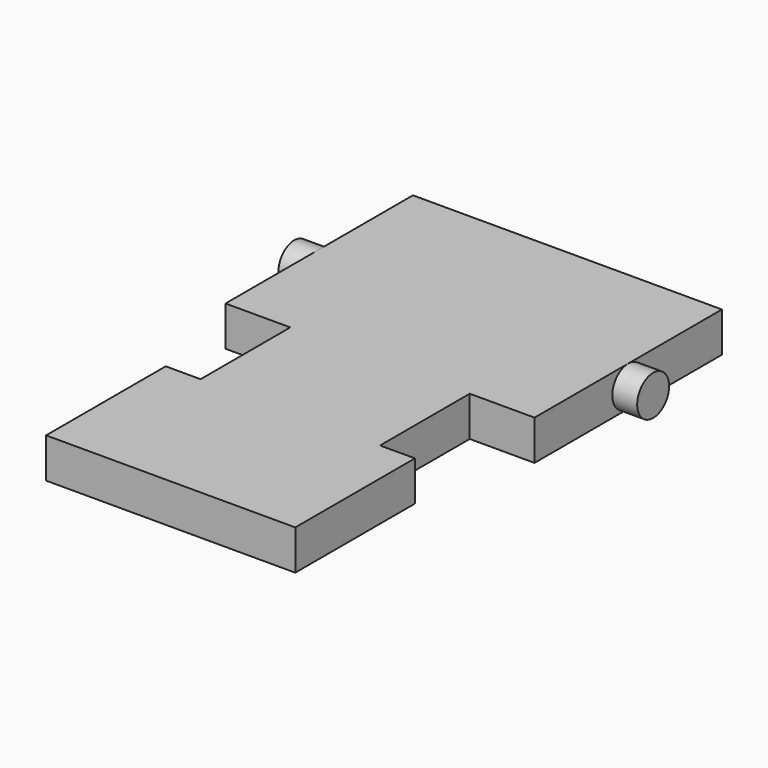
from build123d import *

# Parameters (mm, degrees)
F1_DEPTH = 1.6
F2_W     = 3.14566
F2_H     = 3.226229
F2_R     = 0.8
F3_DEPTH = 1
F4_W     = 2.903376
F4_H     = 2.958158
F4_R     = 0.8
F5_DEPTH = 1


with BuildPart() as f1:
    # F0 (on Top) → F1 (new body)
    with BuildSketch(Plane.XY):
        Polygon((0, 3.9), (0, 0), (2.6, 0), (2.6, -4.5), (1.2, -4.5), (1.2, -10.5), (11.2, -10.5), (11.2, -4.5), (9.8, -4.5), (9.8, 0), (12.4, 0), (12.4, 3.9), (13.4, 3.9), (13.4, 5.5), (12.4, 5.5), (12.4, 9.4), (0, 9.4), (0, 5.5), (-1, 5.5), (-1, 3.9), align=None)
    extrude(amount=F1_DEPTH)

    # F2 (on face) → F3 (cut, through all)
    with BuildSketch(Plane(origin=(-1, 0, 0), x_dir=(0, -1, 0), z_dir=(-1, 0, 0))):
        with Locations((-4.643819, 0.893174)):
            Rectangle(F2_W, F2_H)
        with Locations((-4.7, 0.8)):
            Circle(F2_R, mode=Mode.SUBTRACT)
    extrude(amount=-F3_DEPTH, mode=Mode.SUBTRACT)

    # F4 (on face) → F5 (cut, through all)
    with BuildSketch(Plane.YZ.offset(13.4)):
        with Locations((4.745394, 0.737966)):
            Rectangle(F4_W, F4_H)
        with Locations((4.7, 0.8)):
            Circle(F4_R, mode=Mode.SUBTRACT)
    extrude(amount=-F5_DEPTH, mode=Mode.SUBTRACT)


solid = f1.part
